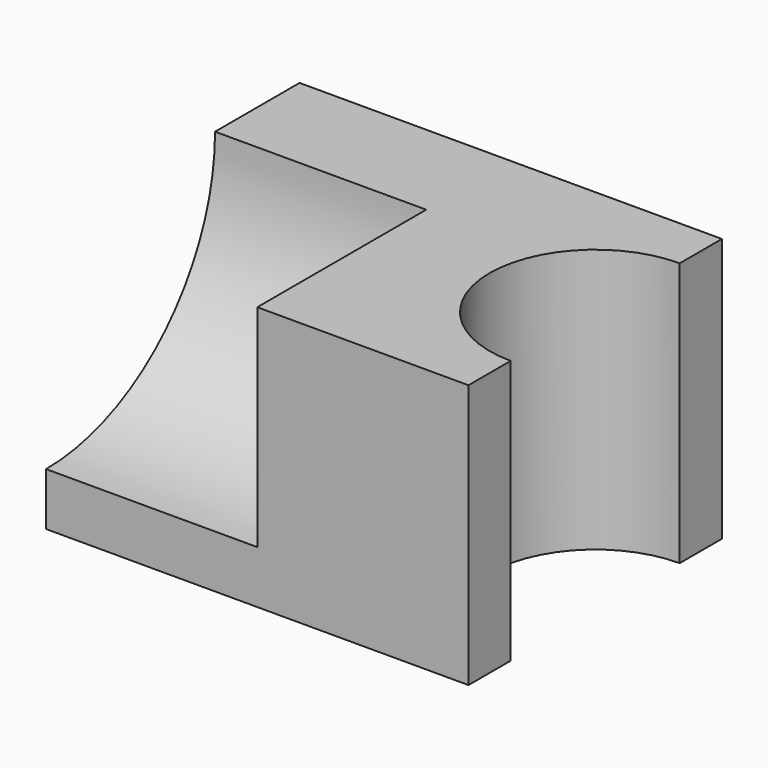
from build123d import *

# Parameters (mm, degrees)
F1_DEPTH = 63.5
F3_DEPTH = 50.8


with BuildPart() as f1:
    # F0 (on Top) → F1 (new body)
    with BuildSketch(Plane.XY):
        with BuildLine():
            Line((50.8, 25.4), (50.8, 38.1))
            Line((50.8, 38.1), (-50.8, 38.1))
            Line((-50.8, 38.1), (-50.8, -38.1))
            Line((-50.8, -38.1), (50.8, -38.1))
            Line((50.8, -38.1), (50.8, -25.4))
            ThreePointArc((50.8, -25.4), (25.4, 0), (50.8, 25.4))
        make_face()
    extrude(amount=F1_DEPTH)

    # F2 (on face) → F3 (cut)
    with BuildSketch(Plane(origin=(-50.8, 0, 0), x_dir=(0, -1, 0), z_dir=(-1, 0, 0))):
        with BuildLine():
            ThreePointArc((-12.7, 63.5), (2.178976, 27.578976), (38.1, 12.7))
            Line((38.1, 12.7), (38.1, 63.5))
            Line((38.1, 63.5), (-12.7, 63.5))
        make_face()
    extrude(amount=-F3_DEPTH, mode=Mode.SUBTRACT)


solid = f1.part
